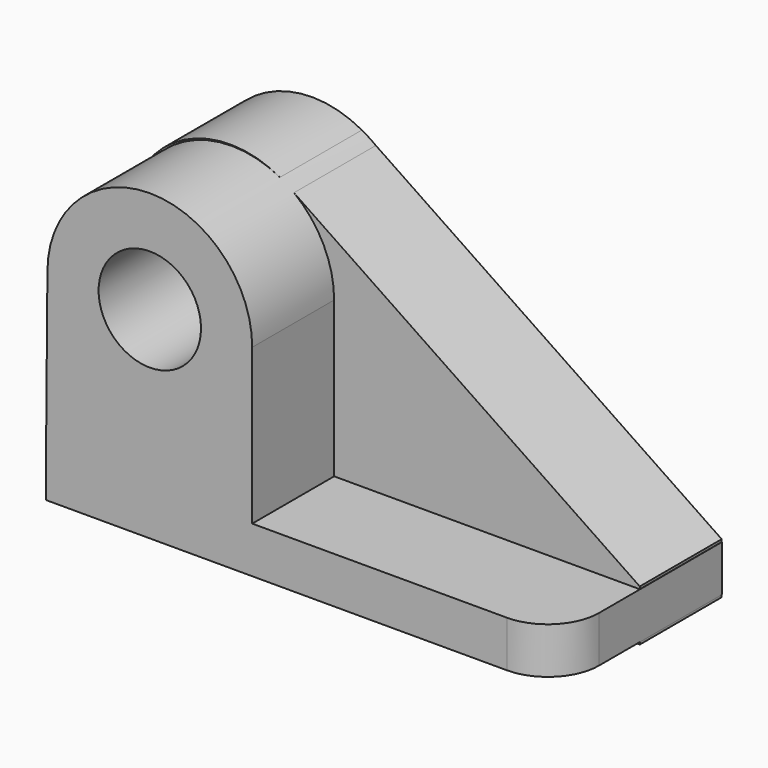
from build123d import *

# Parameters (mm, degrees)
F0_R     = 12.7
F1_DEPTH = 25.4
F2_R     = 12.7
F3_DEPTH = 50.8
F4_R     = 12.7


with BuildPart() as f1:
    # F0 (on Front) → F1 (new body)
    with BuildSketch(Plane.XZ):
        with BuildLine():
            Line((63.240985, -5.1308), (-24.121142, 54.003528))
            ThreePointArc((-24.121142, 54.003528), (-50.265274, 55.405799), (-63.759015, 32.9692))
            Line((-63.759015, 32.9692), (-63.759015, -17.8308))
            Line((-63.759015, -17.8308), (63.240985, -17.8308))
            Line((63.240985, -17.8308), (63.240985, -5.1308))
        make_face()
        with Locations((-38.359015, 32.9692)):
            Circle(F0_R, mode=Mode.SUBTRACT)
    extrude(amount=F1_DEPTH)

    # F2 (on Front) → F3 (join)
    with BuildSketch(Plane.XZ):
        with BuildLine():
            Line((-12.569834, -5.744165), (-12.569834, 32.757161))
            ThreePointArc((-12.569834, 32.757161), (-37.969834, 58.157161), (-63.369834, 32.757161))
            Line((-63.369834, 32.757161), (-63.700385, -5.744165))
            Line((-63.700385, -5.744165), (-63.700385, -17.234586))
            Line((-63.700385, -17.234586), (63.299008, -17.234586))
            Line((63.299008, -17.234586), (63.299008, -5.744165))
            Line((63.299008, -5.744165), (-12.569834, -5.744165))
        make_face()
        with Locations((-37.969834, 32.757161)):
            Circle(F2_R, mode=Mode.SUBTRACT)
    extrude(amount=F3_DEPTH)

    # F4
    f4_edges = [f1.edges().sort_by_distance(p)[0] for p in [
        (63.299008, -50.8, -11.489375),
    ]]
    fillet(f4_edges, radius=F4_R)


solid = f1.part
